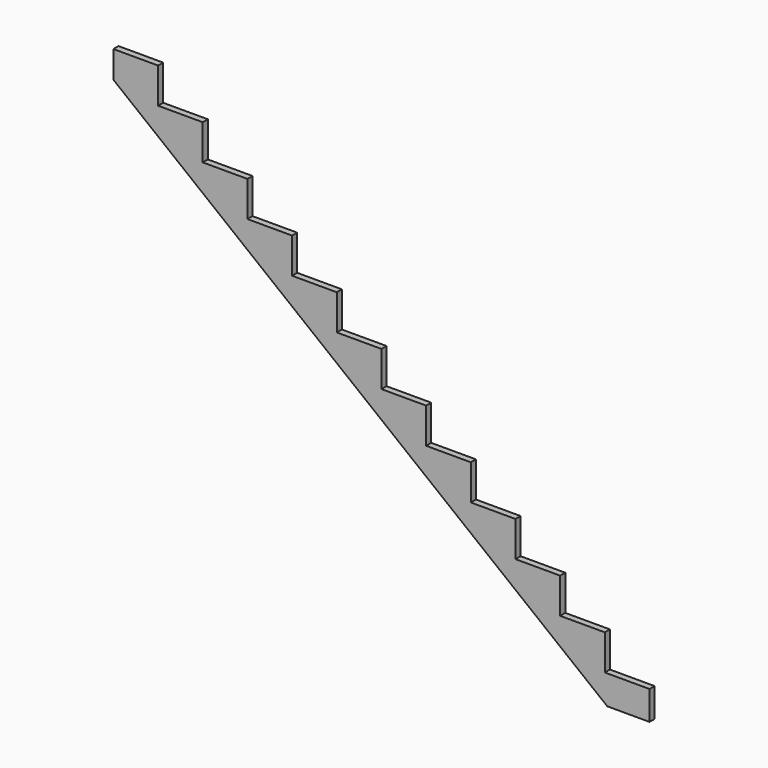
from build123d import *

# Parameters (mm, degrees)
F1_DEPTH = 38.1
F2_SCALE = 0.0114810563


with BuildPart() as f1:
    # F0 (on Front) → F1 (new body)
    with BuildSketch(Plane.XZ):
        Polygon((-252.0217957232, 0), (0, 0), (0, 173.0375), (-266.7, 173.0375), (-266.7, 384.175), (-533.4, 384.175), (-533.4, 595.3125), (-800.1, 595.3125), (-800.1, 806.45), (-1066.8, 806.45), (-1066.8, 1017.5875), (-1333.5, 1017.5875), (-1333.5, 1228.725), (-1600.2, 1228.725), (-1600.2, 1439.8625), (-1866.9, 1439.8625), (-1866.9, 1651), (-2133.6, 1651), (-2133.6, 1862.1375), (-2400.3, 1862.1375), (-2400.3, 2073.275), (-2667, 2073.275), (-2667, 2284.4125), (-2933.7, 2284.4125), (-2933.7, 2495.55), (-3200.4, 2495.55), (-3200.4, 2334.1327450525), align=None)
    extrude(amount=F1_DEPTH)


with BuildPart() as f1_1:
    # F2: moved
    add(f1.part.scale(F2_SCALE))


solid = f1_1.part
